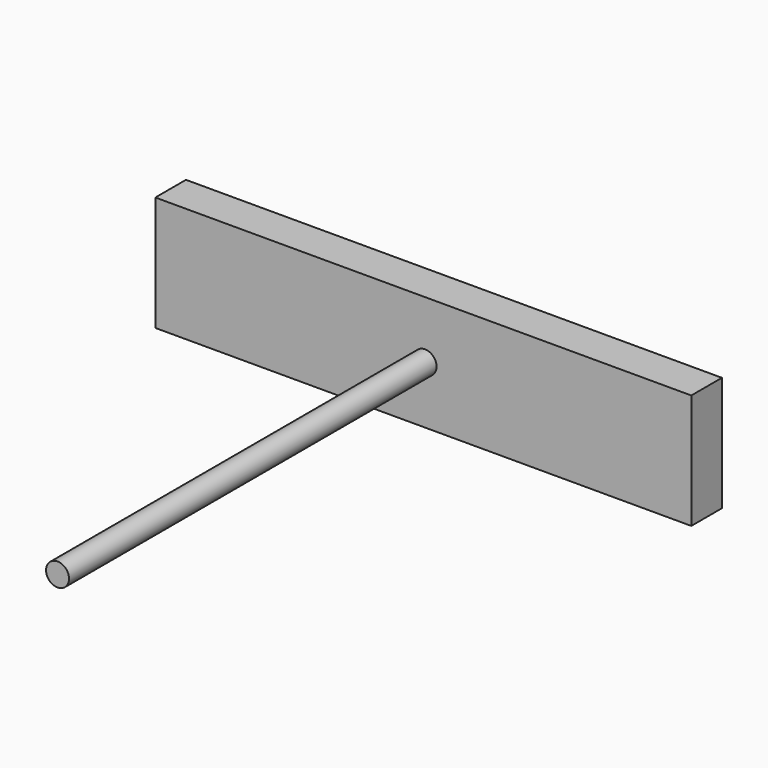
from build123d import *

# Parameters (mm, degrees)
F0_R     = 1.905
F1_DEPTH = 76.2
F2_W     = 88.9
F2_H     = 19.05
F3_DEPTH = 6.35


with BuildPart() as f1:
    # F0 (on Front) → F1 (new body)
    with BuildSketch(Plane.XZ):
        Circle(F0_R)
    extrude(amount=F1_DEPTH)

    # F2 (on Front) → F3 (join)
    with BuildSketch(Plane.XZ):
        with Locations((-0.287805, 0)):
            Rectangle(F2_W, F2_H)
    extrude(amount=-F3_DEPTH)


solid = f1.part
